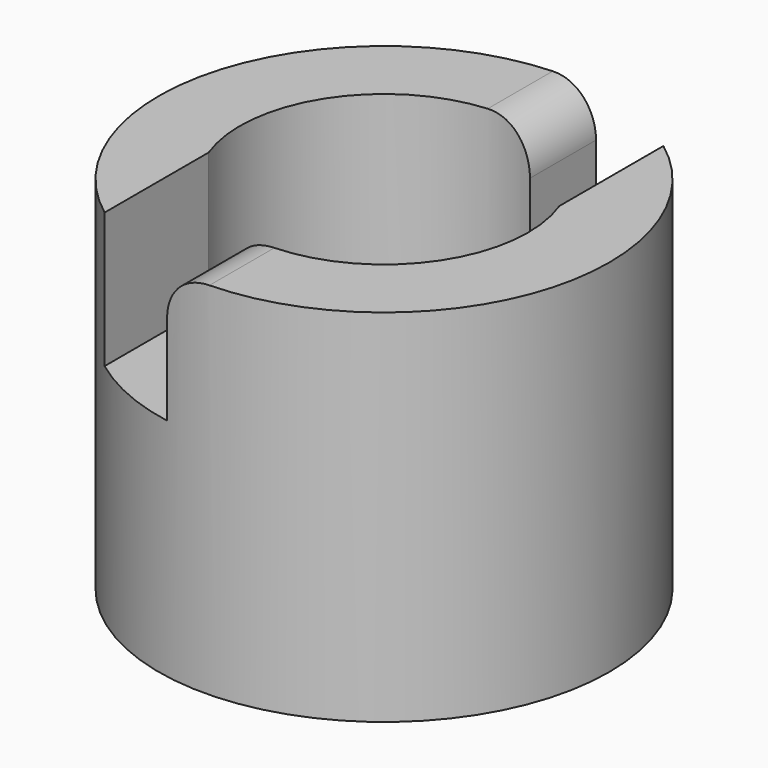
from build123d import *

# Parameters (mm, degrees)
PAD002_DEPTH = 10
PAD001_DEPTH = 10
SKETCH_R     = 5
SKETCH_R_2   = 3.2
PAD_DEPTH    = 12
FILLET_R     = 1


with BuildPart() as pad002:
    # Sketch002 → Pad002 (new body)
    with BuildSketch(Plane.XZ):
        Polygon((-5, 8), (0.75, 8), (0.75, 5), (3, 5), (3, 8), (5, 8), (5, 12), (-5, 12), align=None)
    extrude(amount=-PAD002_DEPTH)


with BuildPart() as pad001:
    # Sketch001 → Pad001 (new body)
    with BuildSketch(Plane.XZ):
        Polygon((5, 8), (5, 12), (-5, 12), (-5, 8), (-3, 8), (-3, 5), (-0.875, 5), (-0.875, 8), align=None)
    extrude(amount=PAD001_DEPTH)


with BuildPart() as fillet_body:
    # Sketch → Pad (new body)
    with BuildSketch(Plane.XY):
        Circle(SKETCH_R)
        Circle(SKETCH_R_2, mode=Mode.SUBTRACT)
    extrude(amount=PAD_DEPTH)

    # Cut: cut Pad001
    add(pad001.part, mode=Mode.SUBTRACT)

    # Cut001: cut Pad002
    add(pad002.part, mode=Mode.SUBTRACT)

    # Fillet
    fillet_edges = [fillet_body.edges().sort_by_distance(p)[0] for p in [
        (-0.875, -4.000445, 8),
        (0.75, 4.027149, 8),
    ]]
    fillet(fillet_edges, radius=FILLET_R)


solid = fillet_body.part
